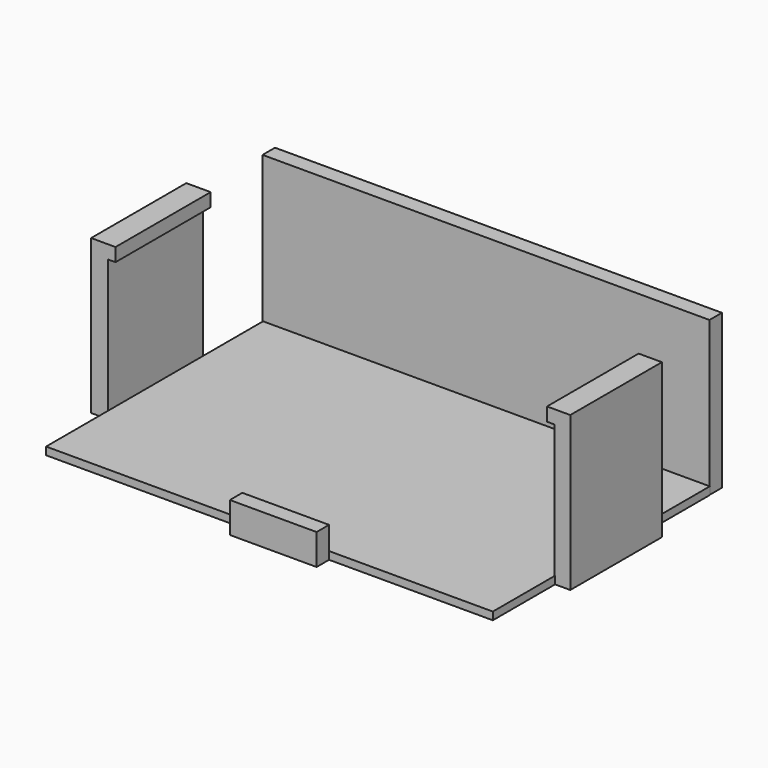
from build123d import *

# Parameters (mm, degrees)
F0_W      = 73.66
F0_H      = 44.75
F3_DEPTH  = 1.27
F1_W      = 73.6861899495
F1_H      = 2.5661867112
F1_W_2    = 2.5661848485
F1_H_2    = 18.879795447
F4_DEPTH  = 25.4
F1_W_3    = 2.7494840324
F1_H_3    = 19.6129903197
F2_W      = 14.2973195761
F2_H      = 2.5661848485
F5_DEPTH  = 5.08
F6_W      = 73.6861899495
F6_H      = 2.2126811832
F7_DEPTH  = 1.27
F8_W      = 18.879795447
F8_H      = 2.2169503659
F9_DEPTH  = 1.27
F10_W     = 19.6129903197
F10_H     = 2.1999276519
F11_DEPTH = 1.27


with BuildPart() as f3:
    # F0 (on Top) → F3 (new body)
    with BuildSketch(Plane.XY):
        with Locations((-2.6811135895, 0.1122842985)):
            Rectangle(F0_W, F0_H)
    extrude(amount=F3_DEPTH)

    # F1 (on face) → F4 (join)
    with BuildSketch(Plane.XY):
        with Locations((-2.7494840324, 23.7372172996)):
            Rectangle(F1_W, F1_H)
        with Locations((35.3767033666, 0)):
            Rectangle(F1_W_2, F1_H_2)
    extrude(amount=F4_DEPTH)

    # F6 (on face) → F7 (join)
    with BuildSketch(Plane.XZ.offset(-22.454123944)):
        with Locations((-2.7494840324, 24.2936594084)):
            Rectangle(F6_W, F6_H)
    extrude(amount=-F7_DEPTH)

    # F8 (on face) → F9 (join)
    with BuildSketch(Plane(origin=(34.0936109424, 0, 0), x_dir=(0, -1, 0), z_dir=(-1, 0, 0))):
        with Locations((0, 24.291524817)):
            Rectangle(F8_W, F8_H)
    extrude(amount=F9_DEPTH)


with BuildPart() as f4:
    # F1 (on face) → F4, piece 2 (new body)
    with BuildSketch(Plane.XY):
        with Locations((-40.9673210233, 0.3665974364)):
            Rectangle(F1_W_3, F1_H_3)
    extrude(amount=F4_DEPTH)

    # F10 (on face) → F11 (join)
    with BuildSketch(Plane.YZ.offset(-39.5925790071)):
        with Locations((0.3665974364, 24.3000361741)):
            Rectangle(F10_W, F10_H)
    extrude(amount=F11_DEPTH)


with BuildPart() as f5:
    # F2 (on face) → F5 (new body)
    with BuildSketch(Plane.XY):
        with Locations((-4.657e-07, -23.5539171845)):
            Rectangle(F2_W, F2_H)
    extrude(amount=F5_DEPTH)


solid = Compound([f3.part, f4.part, f5.part])
